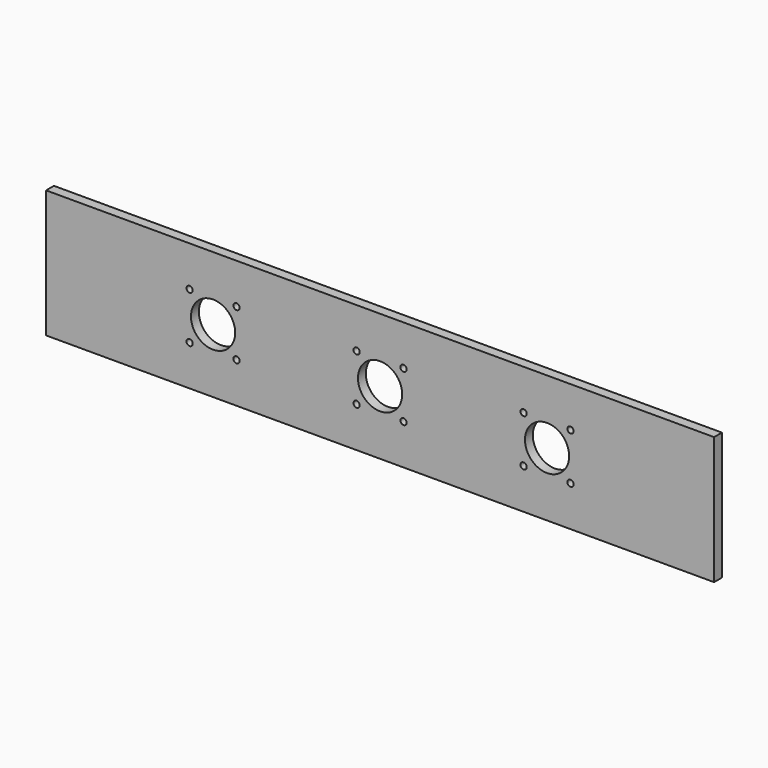
from build123d import *

# Parameters (mm, degrees)
F0_W     = 431.8
F0_H     = 82.55
F1_DEPTH = 6.35
F3_DEPTH = 6.35
F5_DEPTH = 6.35


with BuildPart() as f1:
    # F0 (on Front) → F1 (new body)
    with BuildSketch(Plane.XZ):
        Rectangle(F0_W, F0_H)
    extrude(amount=F1_DEPTH)

    # F2 (on face) → F3 (cut, through all)
    with BuildSketch(Plane.XZ.offset(6.35)):
        with BuildLine():
            Line((-122.2375, 0), (-93.6625, 0))
            ThreePointArc((-93.6625, 0), (-107.95, 14.2875), (-122.2375, 0))
        make_face()
        with BuildLine():
            ThreePointArc((-122.2375, 0), (-107.95, -14.2875), (-93.6625, 0))
            Line((-93.6625, 0), (-122.2375, 0))
        make_face()
        with BuildLine():
            ThreePointArc((-14.2875, 0), (0, -14.2875), (14.2875, 0))
            Line((14.2875, 0), (-14.2875, 0))
        make_face()
        with BuildLine():
            Line((-14.2875, 0), (14.2875, 0))
            ThreePointArc((14.2875, 0), (0, 14.2875), (-14.2875, 0))
        make_face()
        with BuildLine():
            ThreePointArc((93.6625, 0), (107.95, -14.2875), (122.2375, 0))
            Line((122.2375, 0), (93.6625, 0))
        make_face()
        with BuildLine():
            Line((93.6625, 0), (122.2375, 0))
            ThreePointArc((122.2375, 0), (107.95, 14.2875), (93.6625, 0))
        make_face()
    extrude(amount=-F3_DEPTH, mode=Mode.SUBTRACT)

    # F4 (on face) → F5 (cut, through all)
    with BuildSketch(Plane.XZ.offset(6.35)):
        with BuildLine():
            ThreePointArc((-90.77325, -15.15745), (-91.3646892767, -13.7295892768), (-92.79255, -13.13815))
            Line((-92.79255, -13.13815), (-92.79255, -15.15745))
            Line((-92.79255, -15.15745), (-94.81185, -15.15745))
            ThreePointArc((-94.81185, -15.15745), (-92.79255, -17.17675), (-90.77325, -15.15745))
        make_face()
        with BuildLine():
            Line((-92.79255, -15.15745), (-92.79255, -13.13815))
            ThreePointArc((-92.79255, -13.13815), (-94.2204107232, -13.7295892767), (-94.81185, -15.15745))
            Line((-94.81185, -15.15745), (-92.79255, -15.15745))
        make_face()
        with BuildLine():
            ThreePointArc((-90.77325, 15.15745), (-92.79255, 17.17675), (-94.81185, 15.15745))
            Line((-94.81185, 15.15745), (-92.79255, 15.15745))
            Line((-92.79255, 15.15745), (-92.79255, 13.13815))
            ThreePointArc((-92.79255, 13.13815), (-91.3646892767, 13.7295892768), (-90.77325, 15.15745))
        make_face()
        with BuildLine():
            Line((-92.79255, 15.15745), (-94.81185, 15.15745))
            ThreePointArc((-94.81185, 15.15745), (-94.2204107232, 13.7295892767), (-92.79255, 13.13815))
            Line((-92.79255, 13.13815), (-92.79255, 15.15745))
        make_face()
        with BuildLine():
            ThreePointArc((-123.10745, -13.13815), (-124.5353107233, -16.5853107232), (-121.08815, -15.15745))
            Line((-121.08815, -15.15745), (-123.10745, -15.15745))
            Line((-123.10745, -15.15745), (-123.10745, -13.13815))
        make_face()
        with BuildLine():
            Line((-123.10745, -15.15745), (-121.08815, -15.15745))
            ThreePointArc((-121.08815, -15.15745), (-121.6795892767, -13.7295892768), (-123.10745, -13.13815))
            Line((-123.10745, -13.13815), (-123.10745, -15.15745))
        make_face()
        with BuildLine():
            ThreePointArc((-121.08815, 15.15745), (-124.5353107233, 16.5853107232), (-123.10745, 13.13815))
            ThreePointArc((-123.10745, 13.13815), (-121.6795892767, 13.7295892768), (-121.08815, 15.15745))
        make_face()
        with BuildLine():
            ThreePointArc((125.12675, -15.15745), (124.5353107233, -13.7295892768), (123.10745, -13.13815))
            Line((123.10745, -13.13815), (123.10745, -15.15745))
            Line((123.10745, -15.15745), (121.08815, -15.15745))
            ThreePointArc((121.08815, -15.15745), (123.10745, -17.17675), (125.12675, -15.15745))
        make_face()
        with BuildLine():
            Line((123.10745, -15.15745), (123.10745, -13.13815))
            ThreePointArc((123.10745, -13.13815), (121.6795892768, -13.7295892767), (121.08815, -15.15745))
            Line((121.08815, -15.15745), (123.10745, -15.15745))
        make_face()
        with BuildLine():
            ThreePointArc((125.12675, 15.15745), (123.10745, 17.17675), (121.08815, 15.15745))
            Line((121.08815, 15.15745), (123.10745, 15.15745))
            Line((123.10745, 15.15745), (123.10745, 13.13815))
            ThreePointArc((123.10745, 13.13815), (124.5353107233, 13.7295892768), (125.12675, 15.15745))
        make_face()
        with BuildLine():
            Line((123.10745, 15.15745), (121.08815, 15.15745))
            ThreePointArc((121.08815, 15.15745), (121.6795892768, 13.7295892767), (123.10745, 13.13815))
            Line((123.10745, 13.13815), (123.10745, 15.15745))
        make_face()
        with BuildLine():
            ThreePointArc((94.81185, 15.15745), (91.3646892767, 16.5853107232), (92.79255, 13.13815))
            ThreePointArc((92.79255, 13.13815), (94.2204107233, 13.7295892768), (94.81185, 15.15745))
        make_face()
        with BuildLine():
            ThreePointArc((92.79255, -13.13815), (91.3646892767, -16.5853107232), (94.81185, -15.15745))
            Line((94.81185, -15.15745), (92.79255, -15.15745))
            Line((92.79255, -15.15745), (92.79255, -13.13815))
        make_face()
        with BuildLine():
            Line((92.79255, -15.15745), (94.81185, -15.15745))
            ThreePointArc((94.81185, -15.15745), (94.2204107233, -13.7295892768), (92.79255, -13.13815))
            Line((92.79255, -13.13815), (92.79255, -15.15745))
        make_face()
        with BuildLine():
            ThreePointArc((-15.15745, -13.13815), (-16.5853107233, -16.5853107232), (-13.13815, -15.15745))
            Line((-13.13815, -15.15745), (-15.15745, -15.15745))
            Line((-15.15745, -15.15745), (-15.15745, -13.13815))
        make_face()
        with BuildLine():
            Line((-15.15745, -15.15745), (-13.13815, -15.15745))
            ThreePointArc((-13.13815, -15.15745), (-13.7295892767, -13.7295892768), (-15.15745, -13.13815))
            Line((-15.15745, -13.13815), (-15.15745, -15.15745))
        make_face()
        with BuildLine():
            ThreePointArc((17.17675, -15.15745), (16.5853107233, -13.7295892768), (15.15745, -13.13815))
            Line((15.15745, -13.13815), (15.15745, -15.15745))
            Line((15.15745, -15.15745), (13.13815, -15.15745))
            ThreePointArc((13.13815, -15.15745), (15.15745, -17.17675), (17.17675, -15.15745))
        make_face()
        with BuildLine():
            Line((15.15745, -15.15745), (15.15745, -13.13815))
            ThreePointArc((15.15745, -13.13815), (13.7295892768, -13.7295892767), (13.13815, -15.15745))
            Line((13.13815, -15.15745), (15.15745, -15.15745))
        make_face()
        with BuildLine():
            ThreePointArc((17.17675, 15.15745), (15.15745, 17.17675), (13.13815, 15.15745))
            Line((13.13815, 15.15745), (15.15745, 15.15745))
            Line((15.15745, 15.15745), (15.15745, 13.13815))
            ThreePointArc((15.15745, 13.13815), (16.5853107233, 13.7295892768), (17.17675, 15.15745))
        make_face()
        with BuildLine():
            Line((15.15745, 15.15745), (13.13815, 15.15745))
            ThreePointArc((13.13815, 15.15745), (13.7295892768, 13.7295892767), (15.15745, 13.13815))
            Line((15.15745, 13.13815), (15.15745, 15.15745))
        make_face()
        with BuildLine():
            ThreePointArc((-13.13815, 15.15745), (-16.5853107233, 16.5853107232), (-15.15745, 13.13815))
            ThreePointArc((-15.15745, 13.13815), (-13.7295892767, 13.7295892768), (-13.13815, 15.15745))
        make_face()
    extrude(amount=-F5_DEPTH, mode=Mode.SUBTRACT)


solid = f1.part
